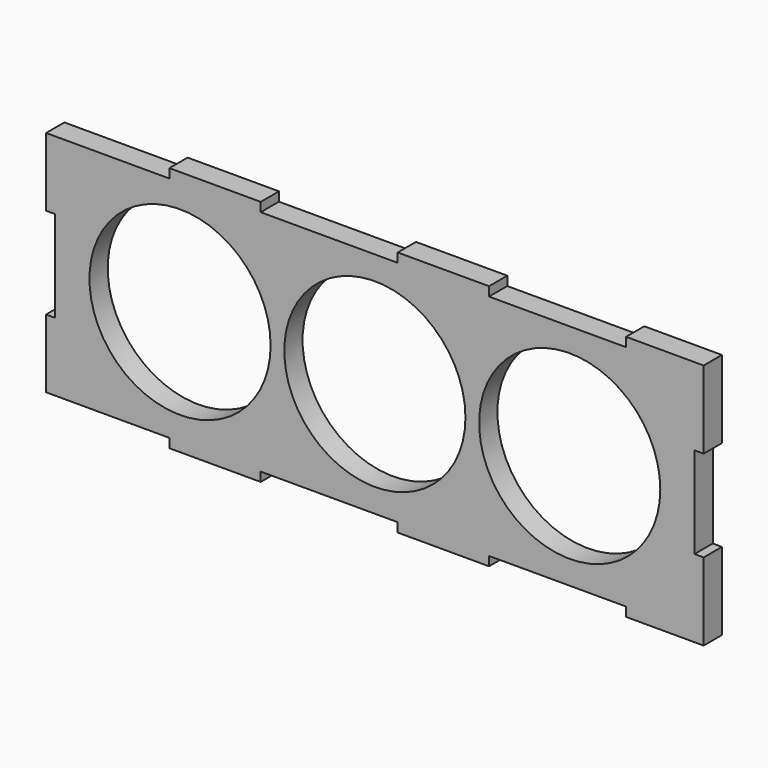
from build123d import *

# Parameters (mm, degrees)
F1_DEPTH = 5
F2_R     = 19.833333
F3_DEPTH = 25


with BuildPart() as f1:
    # F0 (on Front) → F1 (new body)
    with BuildSketch(Plane.XZ):
        Polygon((0, 15), (0, 0), (27, 0), (27, -2), (47, -2), (47, 0), (77, 0), (77, -2), (97, -2), (97, 0), (127, 0), (127, -2), (144, -2), (144, 15), (142, 15), (142, 35), (144, 35), (144, 52), (127, 52), (127, 50), (97, 50), (97, 52), (77, 52), (77, 50), (47, 50), (47, 52), (27, 52), (27, 50), (0, 50), (0, 35), (2, 35), (2, 15), align=None)
    extrude(amount=F1_DEPTH)

    # F2 (on face) → F3 (cut)
    with BuildSketch(Plane.XZ.offset(5)):
        with Locations((72, 25)):
            Circle(F2_R)
        with Locations((114.666667, 25)):
            Circle(F2_R)
        with Locations((29.333333, 25)):
            Circle(F2_R)
    extrude(amount=-F3_DEPTH, mode=Mode.SUBTRACT)


solid = f1.part
